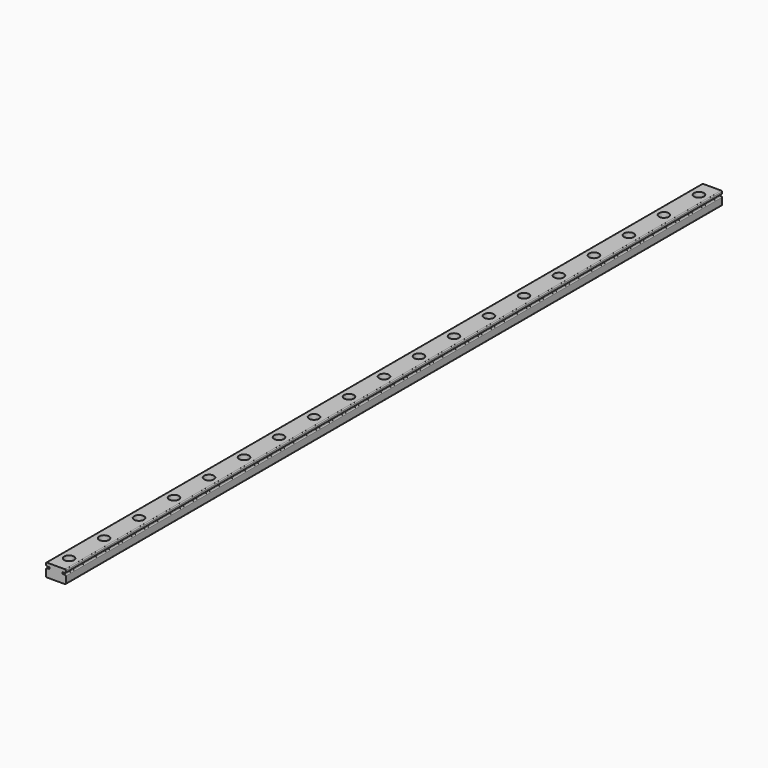
from build123d import *

# Parameters (mm, degrees)
PAD_DEPTH           = 500
SKETCH001_R         = 3
POCKET_DEPTH        = 4.5
SKETCH002_R         = 1.75
POCKET001_DEPTH     = 8.001
LINEARPATTERN_COUNT = 19
LINEARPATTERN_PITCH = 26.666667


with BuildPart() as part:
    # Sketch → Pad (new body)
    with BuildSketch(Plane.XZ):
        with BuildLine():
            Line((-5.5, 0), (5.5, 0))
            ThreePointArc((5.5, 0), (5.853553, 0.146447), (6, 0.5))
            Line((6, 0.5), (6, 4.5))
            ThreePointArc((6, 4.5), (5.853553, 4.853553), (5.5, 5))
            Line((5.5, 5), (4, 5))
            Line((4, 5), (4, 6))
            Line((4, 6), (5.5, 6))
            ThreePointArc((5.5, 6), (5.853553, 6.146447), (6, 6.5))
            Line((6, 6.5), (6, 7.5))
            ThreePointArc((6, 7.5), (5.853553, 7.853553), (5.5, 8))
            Line((-5.5, 8), (5.5, 8))
            ThreePointArc((-5.5, 8), (-5.853553, 7.853553), (-6, 7.5))
            Line((-6, 6.5), (-6, 7.5))
            ThreePointArc((-6, 6.5), (-5.853553, 6.146447), (-5.5, 6))
            Line((-4, 6), (-5.5, 6))
            Line((-4, 5), (-4, 6))
            Line((-5.5, 5), (-4, 5))
            ThreePointArc((-5.5, 5), (-5.853553, 4.853553), (-6, 4.5))
            Line((-6, 0.5), (-6, 4.5))
            ThreePointArc((-6, 0.5), (-5.853553, 0.146447), (-5.5, 0))
        make_face()
    extrude(amount=PAD_DEPTH)

    # Sketch001 (on Face12 of Pad) → Pocket (cut)
    with BuildSketch(Plane(origin=(0, 0, 8), x_dir=(-1, 0, 0), z_dir=(0, 0, 1))):
        with Locations((0, 10)):
            Circle(SKETCH001_R)
    pocket = extrude(amount=-POCKET_DEPTH, mode=Mode.SUBTRACT)

    # Sketch002 (on Face16 of Pocket) → Pocket001 (cut, through all)
    with BuildSketch(Plane(origin=(0, 0, 8), x_dir=(-1, 0, 0), z_dir=(0, 0, 1))):
        with Locations((0, 10)):
            Circle(SKETCH002_R)
    pocket001 = extrude(amount=-POCKET001_DEPTH, mode=Mode.SUBTRACT)

    # LinearPattern: Pocket, Pocket001 ×19
    with Locations(*[(0, -i * LINEARPATTERN_PITCH, 0) for i in range(1, LINEARPATTERN_COUNT)]):
        add(pocket, mode=Mode.SUBTRACT)
        add(pocket001, mode=Mode.SUBTRACT)


solid = part.part
